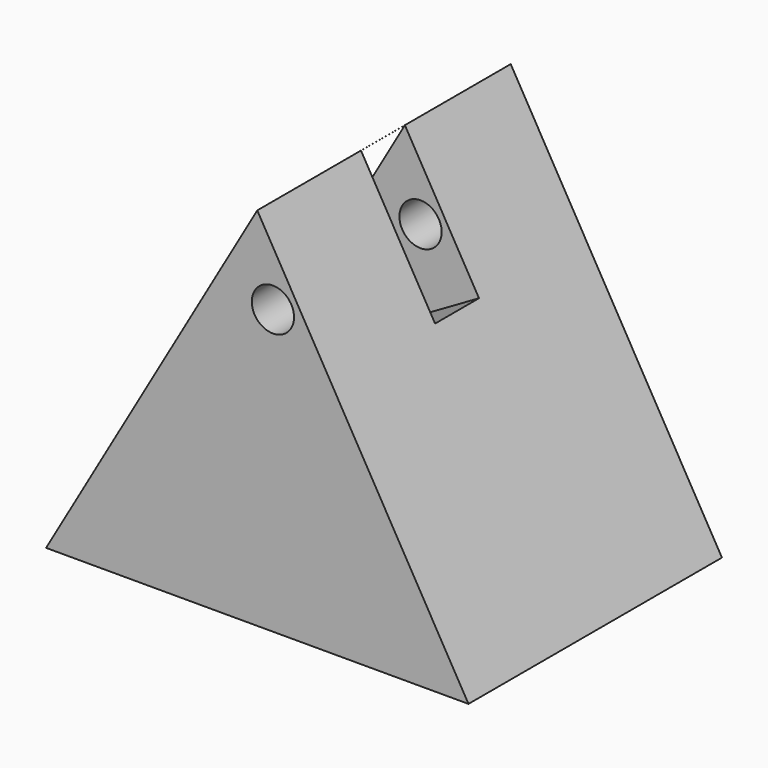
from build123d import *

# Parameters (mm, degrees)
F1_DEPTH = 75
F2_R     = 10
F3_DEPTH = 150.001
F4_W     = 26
F4_H     = 70.1128626734
F5_DEPTH = 44


with BuildPart() as f1:
    # F0 (on Front) → F1 (new body, symmetric)
    with BuildSketch(Plane.XZ):
        Polygon((100, -173.2050807569), (0, 0), (-100, -173.2050807569), align=None)
    extrude(amount=F1_DEPTH, both=True)

    # F2 (on face) → F3 (cut, through all)
    with BuildSketch(Plane(origin=(0, 75, 0), x_dir=(-1, 0, 0), z_dir=(0, 1, 0))):
        with Locations((-7.4031245895, -38.9061681926)):
            Circle(F2_R)
    extrude(amount=-F3_DEPTH, mode=Mode.SUBTRACT)

    # F4 (on face) → F5 (cut)
    with BuildSketch(Plane(origin=(0, 0, 0), x_dir=(0, 1, 0), z_dir=(0.8660254038, 0, 0.5))):
        with Locations((-0.6230119616, -35.0847196241)):
            Rectangle(F4_W, F4_H)
    extrude(amount=-F5_DEPTH, mode=Mode.SUBTRACT)


solid = f1.part
